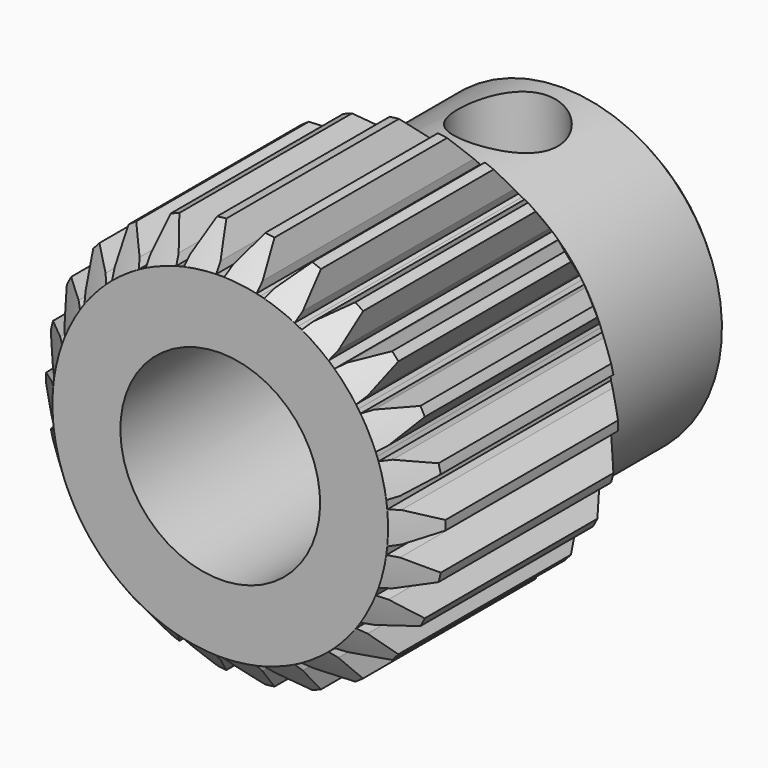
from build123d import *

# Parameters (mm, degrees)
F2_SIZE   = 0.8
F4_DEPTH  = 10
F11_D     = 2.5
F11_DEPTH = 4
F11_START = 0.2003291
F11_TIP   = 0.7510757738
F12_D     = 2.5
F12_DEPTH = 4
F12_START = 0.2003291
F12_TIP   = 0.7510757738
F13_SIZE  = 0.3


with BuildPart() as f1:
    # F0 (on Right) → F1 (revolve)
    with BuildSketch(Plane.YZ):
        Polygon((-5.5, 5), (-5.5, 2.5), (5.5, 2.5), (5.5, 4), (1.5, 4), (1.5, 5), align=None)
    revolve(axis=Axis((0, 0, 0), (0, 1, 0)))

    # F2
    f2_edges = [f1.edges().sort_by_distance(p)[0] for p in [
        (0, 1.5, -5),
        (0, -5.5, -5),
    ]]
    chamfer(f2_edges, length=F2_SIZE)

    # F3 (on face) → F4 (cut)
    with BuildSketch(Plane.XZ.offset(5.5)):
        Polygon((-0.1, 4.2), (0, 4.2), (0.1, 4.2), (0.15, 4.3937822174), (0.5, 5), (0, 5), (-0.5, 5), (-0.15, 4.3937822174), align=None)
        Polygon((-0.9080316083, 4.1018871996), (-0.9058596375, 4.3020042411), (-0.7111074127, 4.9743669193), (-1.1965783214, 4.8547090871), (-1.6820492302, 4.735051255), (-1.1971421827, 4.2302095418), (-1.1022199718, 4.0540240668), (-1.00512579, 4.0779556332), align=None)
        Polygon((-1.86329172, 3.7653876249), (-1.9090740055, 3.9602094156), (-1.8808878474, 4.6596417143), (-2.3236158602, 4.4272801283), (-2.766343873, 4.1949185422), (-2.1747108132, 3.820792464), (-2.0403829251, 3.6724429905), (-1.9518373226, 3.7189153077), align=None)
        Polygon((-2.7102640898, 3.2100574081), (-2.8013399315, 3.3882616135), (-2.9413579171, 4.07411507), (-3.3156132912, 3.7425537409), (-3.6898686653, 3.4109924117), (-3.0258931559, 3.1893248161), (-2.8599662394, 3.0774328765), (-2.7851151646, 3.1437451423), align=None)
        Polygon((-3.3997257621, 2.4681703229), (-3.5308021631, 2.6194003624), (-3.8308869561, 3.2518156666), (-4.1149193295, 2.8403237337), (-4.3989517028, 2.4288318007), (-3.7012215871, 2.3725052026), (-3.5133387114, 2.3035735497), (-3.4565322368, 2.3858719363), align=None)
        Polygon((-3.8916077306, 1.5828421498), (-4.055067007, 1.6983090833), (-4.4977787699, 2.2405325566), (-4.6750812134, 1.7730244352), (-4.8523836569, 1.3055163139), (-4.1614484731, 1.4178042105), (-3.962528708, 1.3958389013), (-3.9270682193, 1.4893405256), align=None)
        Polygon((-4.1573236032, 0.6055249445), (-4.343666096, 0.6785182534), (-4.9032760304, 1.0990378383), (-4.9635443705, 0.6026834013), (-5.0238127106, 0.1063289642), (-4.3798271001, 0.3807055911), (-4.1814309392, 0.4069831697), (-4.1693772712, 0.5062540571), align=None)
        Polygon((-4.1814309392, -0.4069831697), (-4.3798271001, -0.3807055911), (-5.0238127106, -0.1063289642), (-4.9635443705, -0.6026834013), (-4.9032760304, -1.0990378383), (-4.343666096, -0.6785182534), (-4.1573236032, -0.6055249445), (-4.1693772712, -0.5062540571), align=None)
        Polygon((-3.962528708, -1.3958389013), (-4.1614484731, -1.4178042105), (-4.8523836569, -1.3055163139), (-4.6750812134, -1.7730244352), (-4.4977787699, -2.2405325566), (-4.055067007, -1.6983090833), (-3.8916077306, -1.5828421498), (-3.9270682193, -1.4893405256), align=None)
        Polygon((-3.5133387114, -2.3035735497), (-3.7012215871, -2.3725052026), (-4.3989517028, -2.4288318007), (-4.1149193295, -2.8403237337), (-3.8308869561, -3.2518156666), (-3.5308021631, -2.6194003624), (-3.3997257621, -2.4681703229), (-3.4565322368, -2.3858719363), align=None)
        Polygon((-2.8599662394, -3.0774328765), (-3.0258931559, -3.1893248161), (-3.6898686653, -3.4109924117), (-3.3156132912, -3.7425537409), (-2.9413579171, -4.07411507), (-2.8013399315, -3.3882616135), (-2.7102640898, -3.2100574081), (-2.7851151646, -3.1437451423), align=None)
        Polygon((-2.0403829251, -3.6724429905), (-2.1747108132, -3.820792464), (-2.766343873, -4.1949185422), (-2.3236158602, -4.4272801283), (-1.8808878474, -4.6596417143), (-1.9090740055, -3.9602094156), (-1.86329172, -3.7653876249), (-1.9518373226, -3.7189153077), align=None)
        Polygon((-1.1022199718, -4.0540240668), (-1.1971421827, -4.2302095418), (-1.6820492302, -4.735051255), (-1.1965783214, -4.8547090871), (-0.7111074127, -4.9743669193), (-0.9058596375, -4.3020042411), (-0.9080316083, -4.1018871996), (-1.00512579, -4.0779556332), align=None)
        Polygon((-0.1, -4.2), (-0.15, -4.3937822174), (-0.5, -5), (0, -5), (0.5, -5), (0.15, -4.3937822174), (0.1, -4.2), (0, -4.2), align=None)
        Polygon((0.9080316083, -4.1018871996), (0.9058596375, -4.3020042411), (0.7111074127, -4.9743669193), (1.1965783214, -4.8547090871), (1.6820492302, -4.735051255), (1.1971421827, -4.2302095418), (1.1022199718, -4.0540240668), (1.00512579, -4.0779556332), align=None)
        Polygon((1.86329172, -3.7653876249), (1.9090740055, -3.9602094156), (1.8808878474, -4.6596417143), (2.3236158602, -4.4272801283), (2.766343873, -4.1949185422), (2.1747108132, -3.820792464), (2.0403829251, -3.6724429905), (1.9518373226, -3.7189153077), align=None)
        Polygon((2.7102640898, -3.2100574081), (2.8013399315, -3.3882616135), (2.9413579171, -4.07411507), (3.3156132912, -3.7425537409), (3.6898686653, -3.4109924117), (3.0258931559, -3.1893248161), (2.8599662394, -3.0774328765), (2.7851151646, -3.1437451423), align=None)
        Polygon((3.3997257621, -2.4681703229), (3.5308021631, -2.6194003624), (3.8308869561, -3.2518156666), (4.1149193295, -2.8403237337), (4.3989517028, -2.4288318007), (3.7012215871, -2.3725052026), (3.5133387114, -2.3035735497), (3.4565322368, -2.3858719363), align=None)
        Polygon((3.8916077306, -1.5828421498), (4.055067007, -1.6983090833), (4.4977787699, -2.2405325566), (4.6750812134, -1.7730244352), (4.8523836569, -1.3055163139), (4.1614484731, -1.4178042105), (3.962528708, -1.3958389013), (3.9270682193, -1.4893405256), align=None)
        Polygon((4.1573236032, -0.6055249445), (4.343666096, -0.6785182534), (4.9032760304, -1.0990378383), (4.9635443705, -0.6026834013), (5.0238127106, -0.1063289642), (4.3798271001, -0.3807055911), (4.1814309392, -0.4069831697), (4.1693772712, -0.5062540571), align=None)
        Polygon((4.1814309392, 0.4069831697), (4.3798271001, 0.3807055911), (5.0238127106, 0.1063289642), (4.9635443705, 0.6026834013), (4.9032760304, 1.0990378383), (4.343666096, 0.6785182534), (4.1573236032, 0.6055249445), (4.1693772712, 0.5062540571), align=None)
        Polygon((3.962528708, 1.3958389013), (4.1614484731, 1.4178042105), (4.8523836569, 1.3055163139), (4.6750812134, 1.7730244352), (4.4977787699, 2.2405325566), (4.055067007, 1.6983090833), (3.8916077306, 1.5828421498), (3.9270682193, 1.4893405256), align=None)
        Polygon((3.5133387114, 2.3035735497), (3.7012215871, 2.3725052026), (4.3989517028, 2.4288318007), (4.1149193295, 2.8403237337), (3.8308869561, 3.2518156666), (3.5308021631, 2.6194003624), (3.3997257621, 2.4681703229), (3.4565322368, 2.3858719363), align=None)
        Polygon((2.8599662394, 3.0774328765), (3.0258931559, 3.1893248161), (3.6898686653, 3.4109924117), (3.3156132912, 3.7425537409), (2.9413579171, 4.07411507), (2.8013399315, 3.3882616135), (2.7102640898, 3.2100574081), (2.7851151646, 3.1437451423), align=None)
        Polygon((2.0403829251, 3.6724429905), (2.1747108132, 3.820792464), (2.766343873, 4.1949185422), (2.3236158602, 4.4272801283), (1.8808878474, 4.6596417143), (1.9090740055, 3.9602094156), (1.86329172, 3.7653876249), (1.9518373226, 3.7189153077), align=None)
        Polygon((1.1022199718, 4.0540240668), (1.1971421827, 4.2302095418), (1.6820492302, 4.735051255), (1.1965783214, 4.8547090871), (0.7111074127, 4.9743669193), (0.9058596375, 4.3020042411), (0.9080316083, 4.1018871996), (1.00512579, 4.0779556332), align=None)
    extrude(amount=-F4_DEPTH, mode=Mode.SUBTRACT)

    # F11
    # its depths count from where the whole tool has entered the part; down to there all is cleared
    with Locations(Plane.XY.offset(4).offset(-F11_START)):
        with Locations((0, 3.5)):
            Hole(F11_D / 2, depth=F11_DEPTH)
            with Locations((0, 0, -(F11_DEPTH + F11_TIP / 2))):  # 118° drill point
                Cone(0, F11_D / 2, F11_TIP, mode=Mode.SUBTRACT)

    # F12
    # its depths count from where the whole tool has entered the part; down to there all is cleared
    with Locations(Plane(origin=(-4, 0, 0), x_dir=(0, -1, 0), z_dir=(-1, 0, 0)).offset(-F12_START)):
        with Locations((-3.5, 0)):
            Hole(F12_D / 2, depth=F12_DEPTH)
            with Locations((0, 0, -(F12_DEPTH + F12_TIP / 2))):  # 118° drill point
                Cone(0, F12_D / 2, F12_TIP, mode=Mode.SUBTRACT)

    # F13
    f13_edges = [f1.edges().sort_by_distance(p)[0] for p in [
        (0, 5.5, -4),
    ]]
    chamfer(f13_edges, length=F13_SIZE)


solid = f1.part
